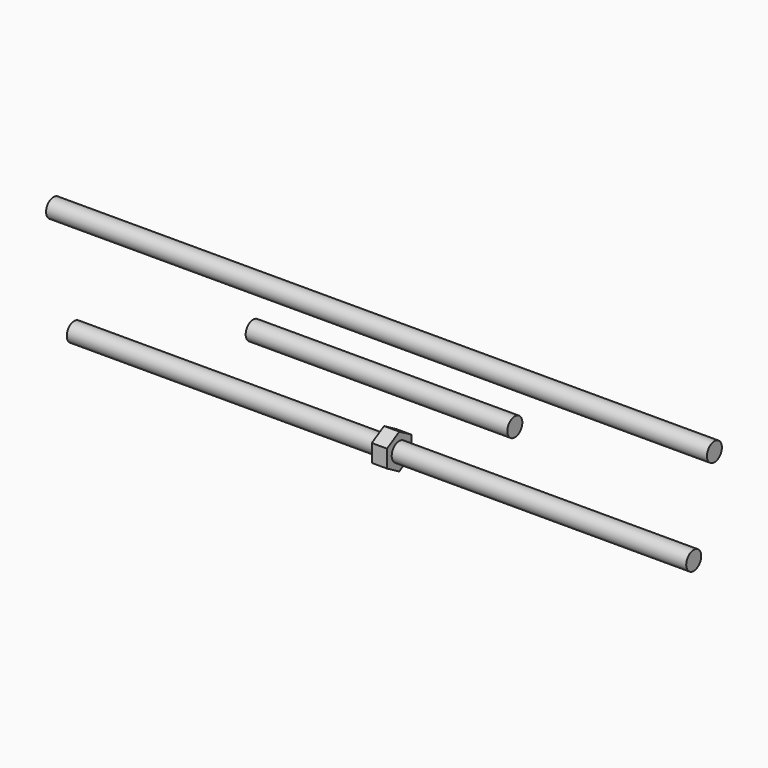
from build123d import *

# Parameters (mm, degrees)
F1_R          = 4
F2_DEPTH      = 132.4102
F2_DEPTH_BACK = 132.4102
F3_DEPTH      = 6.5
F5_R          = 4
F6_DEPTH      = 55.9308
F6_DEPTH_BACK = 55.9308
F8_R          = 4
F9_DEPTH      = 141.26591
F9_DEPTH_BACK = 141.26591


with BuildPart() as f2:
    # F1 (on Right) → F2 (new body, two sides)
    with BuildSketch(Plane.YZ) as f2_sk:
        Circle(F1_R)
    extrude(amount=F2_DEPTH)
    extrude(f2_sk.sketch, amount=-F2_DEPTH_BACK)


with BuildPart() as f3:
    # F1 (on Right) → F3 (new body)
    with BuildSketch(Plane.YZ):
        Polygon((6.5, 3.752777), (0, 7.505553), (-6.5, 3.752777), (-6.5, -3.752777), (0, -7.505553), (6.5, -3.752777), align=None)
        Circle(F1_R, mode=Mode.SUBTRACT)
    extrude(amount=F3_DEPTH)


with BuildPart() as f6:
    # F5 (on Right) → F6 (new body, two sides)
    with BuildSketch(Plane.YZ) as f6_sk:
        with Locations((0, 25.4)):
            Circle(F5_R)
    extrude(amount=F6_DEPTH)
    extrude(f6_sk.sketch, amount=-F6_DEPTH_BACK)


with BuildPart() as f9:
    # F8 (on Right) → F9 (new body, two sides)
    with BuildSketch(Plane.YZ) as f9_sk:
        with Locations((0, 43.77607)):
            Circle(F8_R)
    extrude(amount=F9_DEPTH)
    extrude(f9_sk.sketch, amount=-F9_DEPTH_BACK)


solid = Compound([f2.part, f3.part, f6.part, f9.part])
